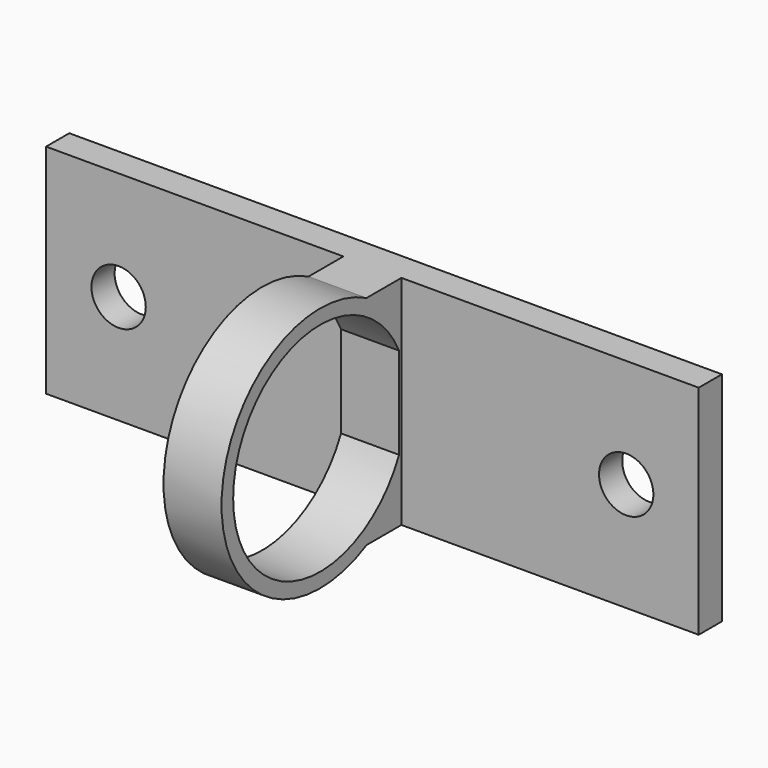
from build123d import *

# Parameters (mm, degrees)
F0_W     = 57.15
F0_H     = 19.05
F0_R     = 2.38125
F1_DEPTH = 2.54
F2_W     = 5.08
F2_H     = 13.97
F3_DEPTH = 0.254
F5_DEPTH = 5.08


with BuildPart() as f1:
    # F0 (on Front) → F1 (new body)
    with BuildSketch(Plane.XZ):
        with Locations((3.013964, 23.129006)):
            Rectangle(F0_W, F0_H)
        with Locations((-19.211036, 23.129006)):
            Circle(F0_R, mode=Mode.SUBTRACT)
        with Locations((25.238964, 23.129006)):
            Circle(F0_R, mode=Mode.SUBTRACT)
    extrude(amount=F1_DEPTH)

    # F2 (on face) → F3 (join)
    with BuildSketch(Plane.XZ.offset(2.54)):
        with Locations((3.013964, 23.129006)):
            Rectangle(F2_W, F2_H)
    extrude(amount=F3_DEPTH)

    # F4 (on face) → F5 (join)
    with BuildSketch(Plane.YZ.offset(5.553964)):
        with BuildLine():
            Line((-2.54, 19.71271), (-2.54, 26.545301))
            ThreePointArc((-2.54, 26.545301), (-2.661883, 26.847016), (-2.794, 27.144391))
            Line((-2.794, 27.144391), (-2.794, 19.11362))
            ThreePointArc((-2.794, 19.11362), (-2.661883, 19.410996), (-2.54, 19.71271))
        make_face()
        with BuildLine():
            ThreePointArc((-2.794, 27.144391), (-2.661883, 26.847016), (-2.54, 26.545301))
            Line((-2.54, 26.545301), (-2.54, 32.654006))
            Line((-2.54, 32.654006), (-6.351263, 32.654006))
            ThreePointArc((-6.351263, 32.654006), (-22.226263, 23.129006), (-6.351263, 13.604006))
            Line((-6.351263, 13.604006), (-2.54, 13.604006))
            Line((-2.54, 13.604006), (-2.54, 19.71271))
            ThreePointArc((-2.54, 19.71271), (-2.661883, 19.410996), (-2.794, 19.11362))
            ThreePointArc((-2.794, 19.11362), (-20.956263, 23.129006), (-2.794, 27.144391))
        make_face()
    extrude(amount=-F5_DEPTH)


solid = f1.part
